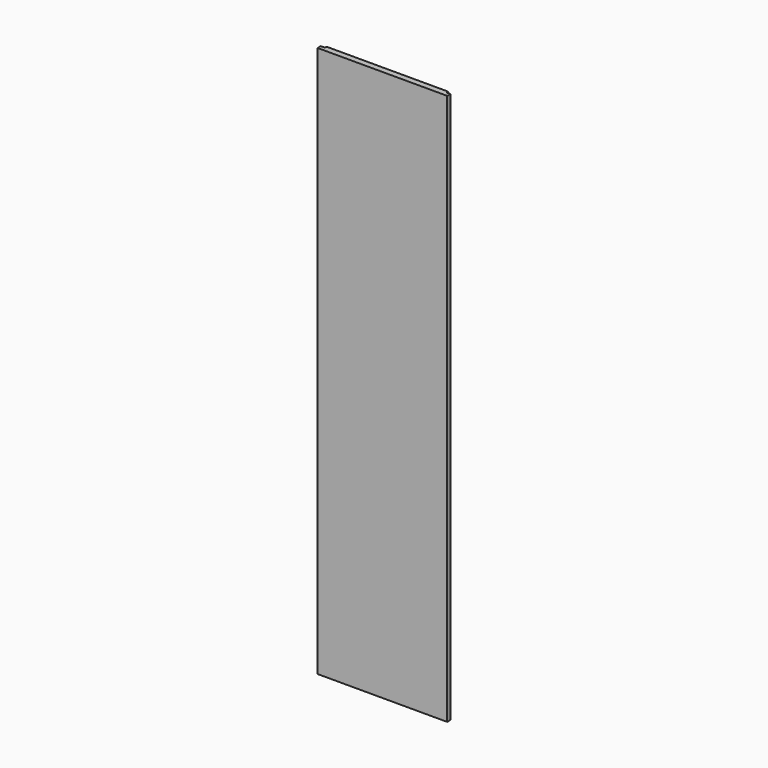
from build123d import *

# Parameters (mm, degrees)
F0_W       = 406.4
F0_H       = 19.05
F1_DEPTH   = 1727.2
F2_W       = 12.7
F2_H       = 6.35
F1_FACE1_W = 406.4
F1_FACE1_H = 19.05
F3_DEPTH   = 1727.201
F4_W       = 12.7
F4_H       = 6.35
F5_DEPTH   = 1727.201


with BuildPart() as f1:
    # F0 (on Top) → F1 (new body)
    with BuildSketch(Plane.XY):
        with Locations((29.7152733813, -9.525)):
            Rectangle(F0_W, F0_H)
    extrude(amount=F1_DEPTH)

    # F2 (on face) + F1_face1 (on face) → F3 (cut, through all)
    with BuildSketch(Plane.XY.offset(1727.2)):
        with Locations((226.5652733813, -3.175)):
            Rectangle(F2_W, F2_H)
    with BuildSketch(Plane(origin=(29.7152733813, -9.525, 0), x_dir=(1, 0, 0), z_dir=(0, 0, -1))):
        Rectangle(F1_FACE1_W, F1_FACE1_H)
    extrude(amount=-F3_DEPTH, dir=(0, 0, 1), mode=Mode.SUBTRACT)

    # F4 (on face) → F5 (cut, through all)
    with BuildSketch(Plane.XY.offset(1727.2)):
        with Locations((-167.1347266187, -3.175)):
            Rectangle(F4_W, F4_H)
    extrude(amount=-F5_DEPTH, mode=Mode.SUBTRACT)


solid = f1.part
